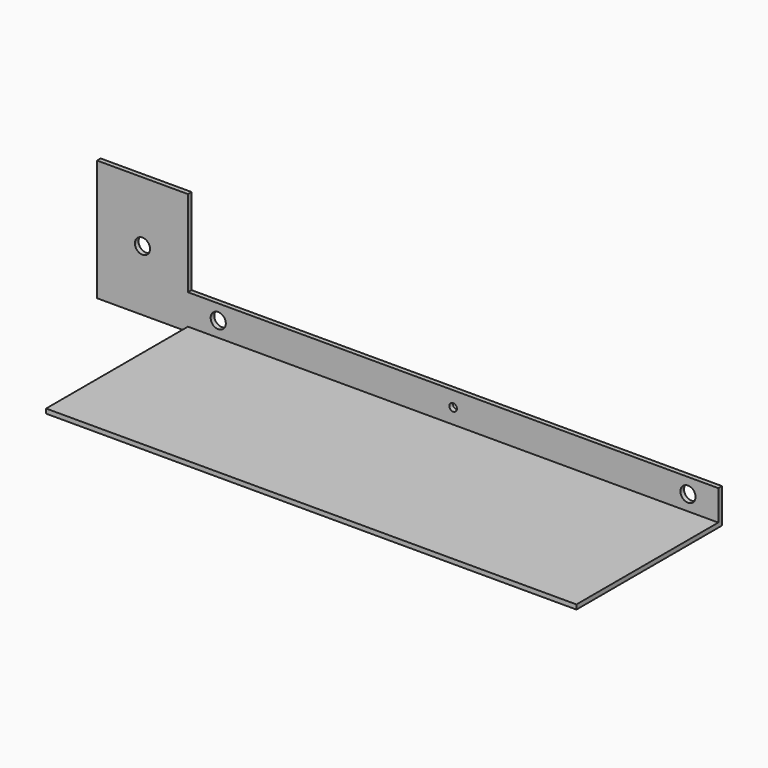
from build123d import *

# Parameters (mm, degrees)
F0_W      = 350
F0_H      = 120
F1_DEPTH  = 3
F2_W      = 60
F2_H      = 80
F3_DEPTH  = 3
F4_R      = 5
F5_DEPTH  = 25
F6_W      = 350
F6_H      = 3
F7_DEPTH  = 20
F8_R      = 5
F9_DEPTH  = 25
F11_R     = 2.5
F12_DEPTH = 25


with BuildPart() as f1:
    # F0 (on Top) → F1 (new body)
    with BuildSketch(Plane.XY):
        with Locations((175, -60)):
            Rectangle(F0_W, F0_H)
    extrude(amount=F1_DEPTH)

    # F2 (on face) → F3 (join)
    with BuildSketch(Plane(origin=(0, 0, 0), x_dir=(-1, 0, 0), z_dir=(0, 1, 0))):
        with Locations((30, 40)):
            Rectangle(F2_W, F2_H)
    extrude(amount=-F3_DEPTH)

    # F4 (on face) → F5 (cut)
    with BuildSketch(Plane.XZ.offset(3)):
        with Locations((-30, 40)):
            Circle(F4_R)
    extrude(amount=-F5_DEPTH, mode=Mode.SUBTRACT)

    # F6 (on face) → F7 (join)
    with BuildSketch(Plane.XY.offset(3)):
        with Locations((175, -1.5)):
            Rectangle(F6_W, F6_H)
    extrude(amount=F7_DEPTH)

    # F8 (on face) → F9 (cut)
    with BuildSketch(Plane.XZ.offset(3)):
        with Locations((330, 13)):
            Circle(F8_R)
        with Locations((20, 13)):
            Circle(F8_R)
    extrude(amount=-F9_DEPTH, mode=Mode.SUBTRACT)

    # F11 (on face) → F12 (cut)
    with BuildSketch(Plane.XZ.offset(3)):
        with Locations((175, 13)):
            Circle(F11_R)
    extrude(amount=-F12_DEPTH, mode=Mode.SUBTRACT)


solid = f1.part
